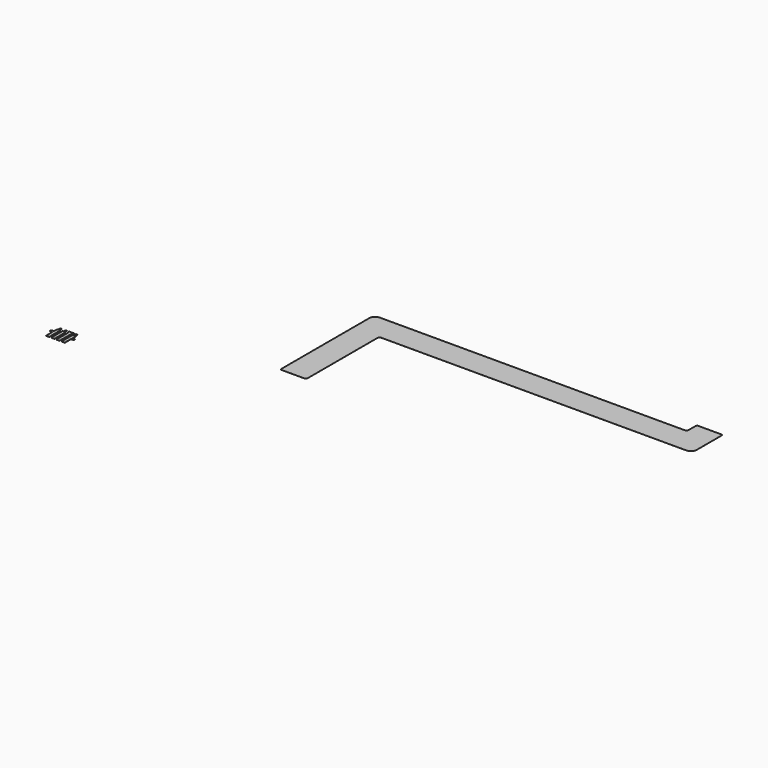
from build123d import *

# Parameters (mm, degrees)
PAD_DEPTH     = 0.01
EXTRUDE_DEPTH = 0.1


with BuildPart() as body:
    # Sketch → Pad (new body)
    with BuildSketch(Plane.XY):
        with BuildLine():
            Line((17.25, 5), (17.25, 49.25))
            ThreePointArc((18, 50), (17.46967, 49.78033), (17.25, 49.25))
            Line((18, 50), (171.25, 50))
            ThreePointArc((171.25, 50), (173.37132, 50.87868), (174.25, 53))
            Line((174.25, 53), (174.25, 68.45))
            ThreePointArc((174.25, 68.45), (174.03033, 68.98033), (173.5, 69.2))
            Line((162, 69.2), (173.5, 69.2))
            ThreePointArc((162, 69.2), (161.46967, 68.98033), (161.25, 68.45))
            Line((161.25, 68.45), (161.25, 63.75))
            ThreePointArc((160.5, 63), (161.03033, 63.21967), (161.25, 63.75))
            Line((160.5, 63), (7.25, 63))
            ThreePointArc((7.25, 63), (5.12868, 62.12132), (4.25, 60))
            Line((4.25, 60), (4.25, 5))
            ThreePointArc((4.25, 5), (4.46967, 4.46967), (5, 4.25))
            Line((5, 4.25), (16.5, 4.25))
            ThreePointArc((16.5, 4.25), (17.03033, 4.46967), (17.25, 5))
        make_face()
    extrude(amount=PAD_DEPTH)


with BuildPart() as extrude_body:
    # Sketch001 → Extrude (new body)
    with BuildSketch(Plane.XY):
        with BuildLine():
            Line((-85.218495, -23.88109), (-84.793495, -23.63109))
            Line((-84.793495, -23.63109), (-84.793495, -22.388941))
            Line((-84.793495, -22.388941), (-84.043495, -22.388941))
            Line((-84.043495, -22.388941), (-84.043495, -23.63109))
            Line((-84.043495, -23.63109), (-83.618495, -23.88109))
            Line((-83.618495, -23.88109), (-83.618495, -30.78109))
            Line((-83.618495, -30.78109), (-85.218495, -30.78109))
            Line((-85.218495, -30.78109), (-85.218495, -26.88109))
            Line((-85.218495, -26.88109), (-86.068495, -26.88109))
            ThreePointArc((-86.068495, -25.88109), (-86.568495, -26.38109), (-86.068495, -26.88109))
            Line((-86.068495, -25.88109), (-85.218495, -25.88109))
            Line((-85.218495, -25.88109), (-85.218495, -23.88109))
        make_face()
        with BuildLine():
            Line((-77.418495, -23.88109), (-77.418495, -30.78109))
            Line((-77.418495, -30.78109), (-75.818495, -30.78109))
            Line((-75.818495, -30.78109), (-75.818495, -26.88109))
            Line((-75.818495, -26.88109), (-74.968495, -26.88109))
            ThreePointArc((-74.968495, -26.88109), (-74.468495, -26.38109), (-74.968495, -25.88109))
            Line((-75.818495, -25.88109), (-74.968495, -25.88109))
            Line((-75.818495, -25.88109), (-75.818495, -23.88109))
            Line((-75.818495, -23.88109), (-76.243495, -23.63109))
            Line((-76.243495, -23.63109), (-76.243495, -22.388941))
            Line((-76.243495, -22.388941), (-76.993495, -22.388941))
            Line((-76.993495, -22.388941), (-76.993495, -23.63109))
            Line((-76.993495, -23.63109), (-77.418495, -23.88109))
        make_face()
        Polygon((-82.618495, -30.78109), (-81.018495, -30.78109), (-81.018495, -23.88109), (-81.443495, -23.63109), (-81.443495, -22.388941), (-82.193495, -22.388941), (-82.193495, -23.63109), (-82.618495, -23.88109), align=None)
        Polygon((-78.418495, -30.78109), (-78.418495, -23.88109), (-77.968495, -22.388941), (-80.468495, -22.388941), (-80.018495, -23.88109), (-80.018495, -30.78109), align=None)
    extrude(amount=EXTRUDE_DEPTH)


solid = Compound([body.part, extrude_body.part])
